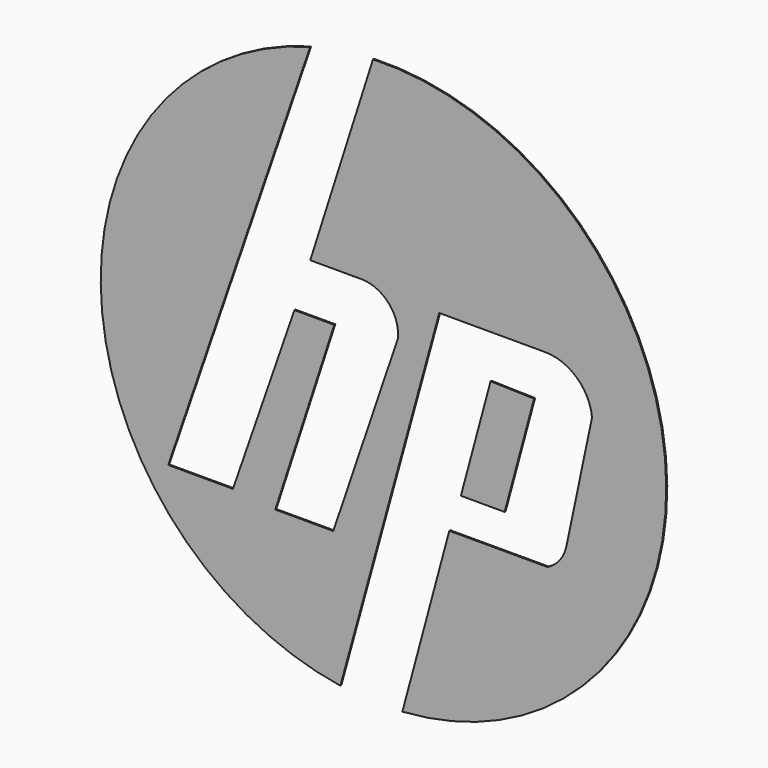
from build123d import *

# Parameters (mm, degrees)
F1_DEPTH = 0.127


with BuildPart() as f1:
    # F0 (on Front) → F1 (new body)
    with BuildSketch(Plane.XZ):
        with BuildLine():
            Line((-8.702541, 3.542074), (-14.70889, -13.786842))
            Line((-14.70889, -13.786842), (-21.03447, -13.786842))
            Line((-21.03447, -13.786842), (-7.164713, 26.684349))
            ThreePointArc((-7.164713, 26.684349), (-27.588302, -1.507698), (-4.214135, -27.306202))
            Line((-4.214135, -27.306202), (5.449344, 7.901549))
            Line((5.449344, 7.901549), (15.803101, 7.901549))
            ThreePointArc((15.803101, 7.901549), (18.889566, 6.712512), (20.380549, 3.760048))
            Line((20.380549, 3.760048), (17.873852, -8.119524))
            ThreePointArc((17.873852, -8.119524), (17.221807, -9.530373), (16.021073, -10.517235))
            Line((16.021073, -10.517235), (6.430227, -10.517235))
            Line((6.430227, -10.517235), (1.845814, -27.567745))
            ThreePointArc((1.845814, -27.567745), (27.592102, 1.436488), (-1.026846, 27.610381))
            Line((-1.026846, 27.610381), (-7.153734, 8.337497))
            Line((-7.153734, 8.337497), (-2.179738, 8.337497))
            ThreePointArc((-2.179738, 8.337497), (0.481529, 7.166801), (1.41683, 4.413969))
            Line((1.41683, 4.413969), (-4.904409, -14.22279))
            Line((-4.904409, -14.22279), (-10.571728, -14.22279))
            Line((-10.571728, -14.22279), (-4.810151, 3.542074))
            Line((-4.810151, 3.542074), (-8.702541, 3.542074))
        make_face()
        Polygon((11.837652, -7.138641), (14.71323, 3.542074), (10.462743, 3.651061), (7.561689, -7.138641), align=None)
    extrude(amount=F1_DEPTH)


solid = f1.part
